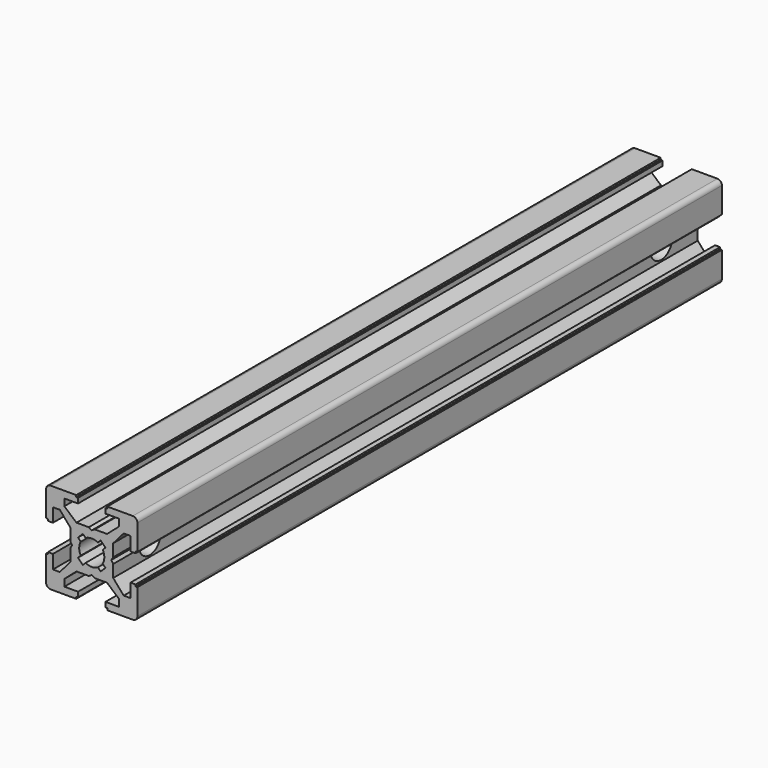
from build123d import *

# Parameters (mm, degrees)
PAD_DEPTH          = 160
POCKET_DEPTH       = 160
POLARPATTERN_COUNT = 4
POCKET001_DEPTH    = 160
SKETCH003_R        = 3
POCKET002_DEPTH    = 20
SKETCH004_R        = 5
POCKET003_DEPTH    = 3
POCKET004_DEPTH    = 3


with BuildPart() as pocket002:
    # Sketch → Pad (new body)
    with BuildSketch(Plane.XZ):
        with BuildLine():
            Line((-9, 10), (9, 10))
            ThreePointArc((10, 9), (9.707107, 9.707107), (9, 10))
            Line((10, 9), (10, -9))
            ThreePointArc((9, -10), (9.707107, -9.707107), (10, -9))
            Line((9, -10), (-9, -10))
            ThreePointArc((-10, -9), (-9.707107, -9.707107), (-9, -10))
            Line((-10, -9), (-10, 9))
            ThreePointArc((-9, 10), (-9.707107, 9.707107), (-10, 9))
        make_face()
    extrude(amount=PAD_DEPTH)

    # Sketch001 (on Face10 of Pad) → Pocket (cut)
    with BuildSketch(Plane.XZ.offset(160)):
        Polygon((-3.4, 10), (-3.4, 9.6), (-3, 9.6), (-3, 8.5), (-6, 8.5), (-6, 7), (-3.35, 4.7), (-0.65, 4.7), (0, 4.3), (0.65, 4.7), (3.35, 4.7), (6, 7), (6, 8.5), (3, 8.5), (3, 9.6), (3.4, 9.6), (3.4, 10), align=None)
    pocket = extrude(amount=-POCKET_DEPTH, mode=Mode.SUBTRACT)

    # PolarPattern: Pocket ×4 about axis
    polarpattern_axis = Axis((0, -160, 0), (0, -1, 0))
    for i in range(1, POLARPATTERN_COUNT):
        add(pocket.rotate(polarpattern_axis, i * 360 / POLARPATTERN_COUNT), mode=Mode.SUBTRACT)

    # Sketch002 (on Face4 of PolarPattern) → Pocket001 (cut)
    with BuildSketch(Plane.XZ.offset(160)):
        with BuildLine():
            ThreePointArc((1.340499, 2.401159), (0, 2.75), (-1.340499, 2.401159))
            Line((-1.944544, 3.005204), (-1.340499, 2.401159))
            Line((-3.005204, 1.944544), (-1.944544, 3.005204))
            Line((-2.401159, 1.340499), (-3.005204, 1.944544))
            ThreePointArc((-2.401159, 1.340499), (-2.75, 0), (-2.401159, -1.340499))
            Line((-3.005204, -1.944544), (-2.401159, -1.340499))
            Line((-1.944544, -3.005204), (-3.005204, -1.944544))
            Line((-1.340499, -2.401159), (-1.944544, -3.005204))
            ThreePointArc((-1.340499, -2.401159), (0, -2.75), (1.340499, -2.401159))
            Line((1.944544, -3.005204), (1.340499, -2.401159))
            Line((3.005204, -1.944544), (1.944544, -3.005204))
            Line((2.401159, -1.340499), (3.005204, -1.944544))
            ThreePointArc((2.401159, -1.340499), (2.75, 0), (2.401159, 1.340499))
            Line((2.401159, 1.340499), (3.005204, 1.944544))
            Line((3.005204, 1.944544), (1.944544, 3.005204))
            Line((1.944544, 3.005204), (1.340499, 2.401159))
        make_face()
    extrude(amount=-POCKET001_DEPTH, mode=Mode.SUBTRACT)

    # Sketch003 (on Face44 of Pocket001) → Pocket002 (cut)
    with BuildSketch(Plane(origin=(10, 0, 0), x_dir=(0, 0, 1), z_dir=(1, 0, 0))):
        with Locations((0, 10)):
            Circle(SKETCH003_R)
        with Locations((0, 150)):
            Circle(SKETCH003_R)
    extrude(amount=-POCKET002_DEPTH, mode=Mode.SUBTRACT)


with BuildPart() as pocket003:
    # Pocket003 base: copy of Pocket002
    add(pocket002.part)

    # Sketch004 (on Face37 of Pocket002) → Pocket003 (cut)
    with BuildSketch(Plane(origin=(-10, 0, 0), x_dir=(0, 0, -1), z_dir=(-1, 0, 0))):
        with Locations((0, 10)):
            Circle(SKETCH004_R)
        with Locations((0, 150)):
            Circle(SKETCH004_R)
    extrude(amount=-POCKET003_DEPTH, mode=Mode.SUBTRACT)


with BuildPart() as pocket004:
    # Pocket004 base: copy of Pocket002
    add(pocket002.part)

    # Sketch004 (on Face37 of Pocket002) → Pocket004 (cut)
    with BuildSketch(Plane(origin=(-10, 0, 0), x_dir=(0, 0, -1), z_dir=(-1, 0, 0))):
        with Locations((0, 10)):
            Circle(SKETCH004_R)
        with Locations((0, 150)):
            Circle(SKETCH004_R)
    extrude(amount=-POCKET004_DEPTH, mode=Mode.SUBTRACT)


solid = Compound([pocket003.part, pocket004.part])
